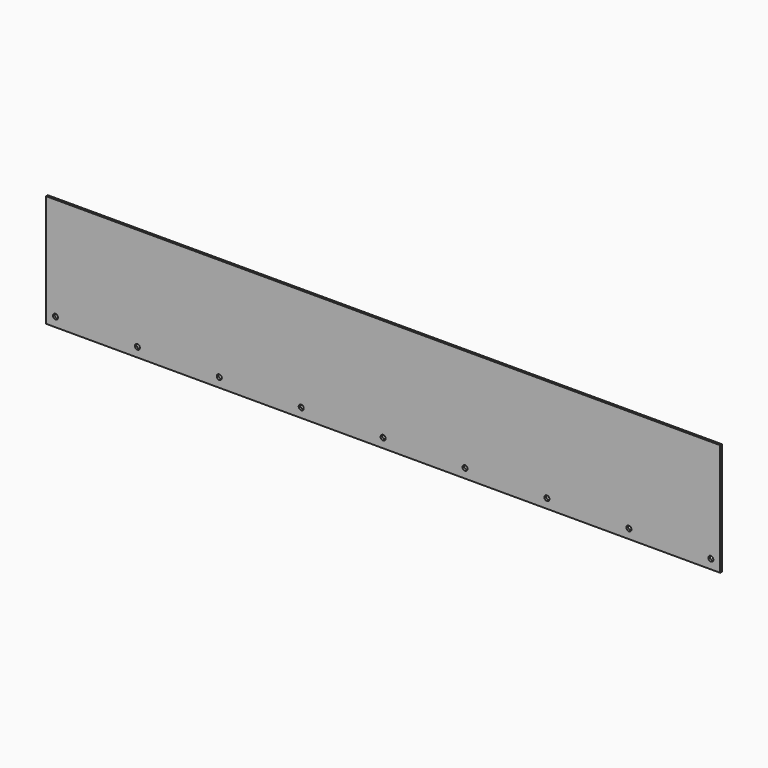
from build123d import *

# Parameters (mm, degrees)
F0_W     = 914.4
F0_H     = 152.4
F1_DEPTH = 2.9972
F2_R     = 3.429
F3_DEPTH = 2.9982


with BuildPart() as f1:
    # F0 (on Front) → F1 (new body)
    with BuildSketch(Plane.XZ):
        Rectangle(F0_W, F0_H)
    extrude(amount=F1_DEPTH)

    # F2 (on face) → F3 (cut, through all)
    with BuildSketch(Plane.XZ.offset(2.9972)):
        with Locations((-444.5, -63.5)):
            Circle(F2_R)
        with Locations((-333.375, -63.5)):
            Circle(F2_R)
        with Locations((-222.25, -63.5)):
            Circle(F2_R)
        with Locations((-111.125, -63.5)):
            Circle(F2_R)
        with Locations((0, -63.5)):
            Circle(F2_R)
        with Locations((111.125, -63.5)):
            Circle(F2_R)
        with Locations((222.25, -63.5)):
            Circle(F2_R)
        with Locations((333.375, -63.5)):
            Circle(F2_R)
        with Locations((444.5, -63.5)):
            Circle(F2_R)
    extrude(amount=-F3_DEPTH, mode=Mode.SUBTRACT)


solid = f1.part
